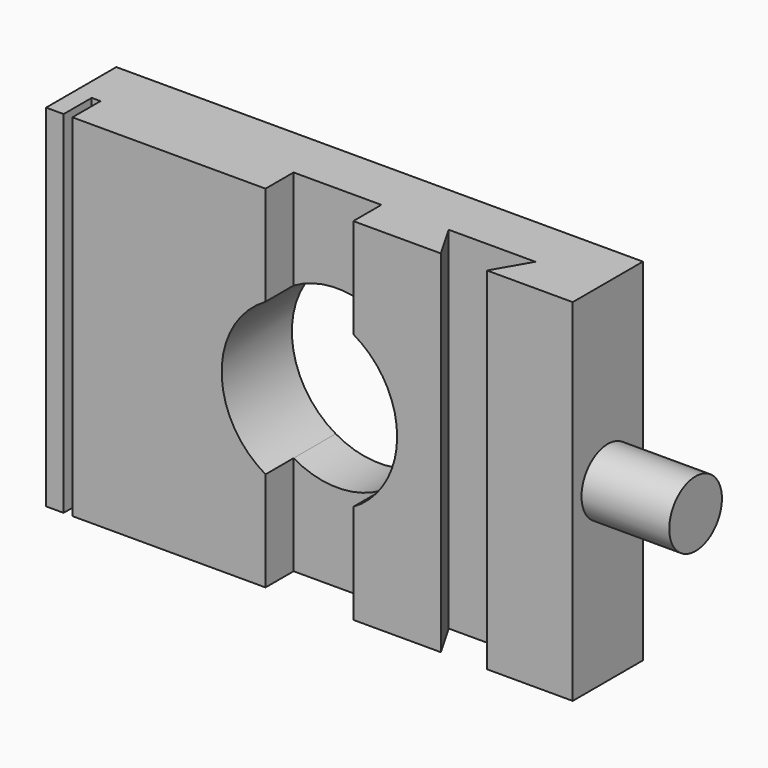
from build123d import *

# Parameters (mm, degrees)
F0_W     = 76.2
F0_H     = 50.8
F1_DEPTH = 12.7
F3_DEPTH = 12.7
F2_W     = 1.27
F2_H     = 50.8
F4_DEPTH = 5.08
F6_DEPTH = 50.8
F7_R     = 4.7625
F8_DEPTH = 12.7


with BuildPart() as f1:
    # F0 (on Front) → F1 (new body)
    with BuildSketch(Plane.XZ):
        Rectangle(F0_W, F0_H)
    extrude(amount=F1_DEPTH)

    # F2 (on face) → F3 (cut)
    with BuildSketch(Plane.XZ.offset(12.7)):
        with BuildLine():
            Line((-6.35, -10.994409386), (-6.35, 10.994409386))
            ThreePointArc((-6.35, 10.994409386), (-12.6964379944, 0), (-6.35, -10.994409386))
        make_face()
        with BuildLine():
            ThreePointArc((6.35, 10.994409386), (0, 12.6964379944), (-6.35, 10.994409386))
            Line((-6.35, 10.994409386), (-6.35, -10.994409386))
            ThreePointArc((-6.35, -10.994409386), (0, -12.6964379944), (6.35, -10.994409386))
            Line((6.35, -10.994409386), (6.35, 10.994409386))
        make_face()
        with BuildLine():
            ThreePointArc((12.6964379944, 0), (10.99595196, 6.3473284334), (6.35, 10.994409386))
            Line((6.35, 10.994409386), (6.35, -10.994409386))
            ThreePointArc((6.35, -10.994409386), (10.99595196, -6.3473284334), (12.6964379944, 0))
        make_face()
    extrude(amount=-F3_DEPTH, mode=Mode.SUBTRACT)

    # F2 (on face) → F4 (cut)
    with BuildSketch(Plane.XZ.offset(12.7)):
        with Locations((-34.925, 0)):
            Rectangle(F2_W, F2_H)
        with BuildLine():
            ThreePointArc((6.35, -10.994409386), (10.99595196, -6.3473284334), (12.6964379944, 0))
            ThreePointArc((12.6964379944, 0), (10.99595196, 6.3473284334), (6.35, 10.994409386))
            Line((6.35, 10.994409386), (6.35, -10.994409386))
        make_face()
        with BuildLine():
            Line((6.35, -10.994409386), (6.35, 10.994409386))
            ThreePointArc((6.35, 10.994409386), (0, 12.6964379944), (-6.35, 10.994409386))
            Line((-6.35, 10.994409386), (-6.35, -10.994409386))
            ThreePointArc((-6.35, -10.994409386), (0, -12.6964379944), (6.35, -10.994409386))
        make_face()
        with BuildLine():
            ThreePointArc((-6.35, 10.994409386), (0, 12.6964379944), (6.35, 10.994409386))
            Line((6.35, 10.994409386), (6.35, 25.4))
            Line((6.35, 25.4), (-6.35, 25.4))
            Line((-6.35, 25.4), (-6.35, 10.994409386))
        make_face()
        with BuildLine():
            Line((6.35, -25.4), (6.35, -10.994409386))
            ThreePointArc((6.35, -10.994409386), (0, -12.6964379944), (-6.35, -10.994409386))
            Line((-6.35, -10.994409386), (-6.35, -25.4))
            Line((-6.35, -25.4), (6.35, -25.4))
        make_face()
        with BuildLine():
            Line((-6.35, -10.994409386), (-6.35, 10.994409386))
            ThreePointArc((-6.35, 10.994409386), (-12.6964379944, 0), (-6.35, -10.994409386))
        make_face()
    extrude(amount=-F4_DEPTH, mode=Mode.SUBTRACT)

    # F5 (on face) → F6 (cut)
    with BuildSketch(Plane(origin=(0, 0, -25.4), x_dir=(1, 0, 0), z_dir=(0, 0, -1))):
        Polygon((25.7032178342, 12.7), (19.0220633893, 12.7), (16.0891240218, 7.62), (28.6361572017, 7.62), align=None)
    extrude(amount=-F6_DEPTH, mode=Mode.SUBTRACT)

    # F7 (on face) → F8 (join)
    with BuildSketch(Plane.YZ.offset(38.1)):
        with Locations((-6.35, 0)):
            Circle(F7_R)
    extrude(amount=F8_DEPTH)


solid = f1.part
